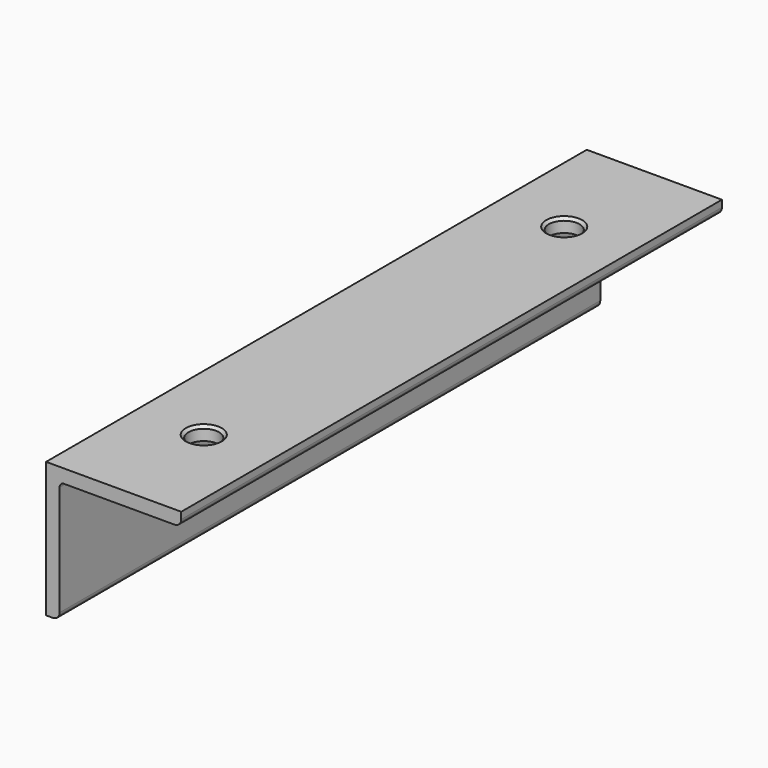
from build123d import *

# Parameters (mm, degrees)
F4_D           = 6.8
F4_DEPTH       = 5
F4_CSINK_D     = 8
F4_CSINK_ANGLE = 90


with BuildPart() as f2:
    # F2: sweep along a path in F1
    with BuildLine(Plane.YZ) as f2_path:
        Line((0, 0), (-150, 0))
    # F0 (on Front) → F2 (sweep)
    with BuildSketch(Plane.XZ):
        with BuildLine():
            Line((30, 0), (0, 0))
            Line((0, 0), (0, -30))
            Line((0, -30), (1.5, -30))
            ThreePointArc((1.5, -30), (2.56066, -29.56066), (3, -28.5))
            Line((3, -28.5), (3, -4))
            ThreePointArc((3, -4), (3.292893, -3.292893), (4, -3))
            Line((4, -3), (28.5, -3))
            ThreePointArc((28.5, -3), (29.56066, -2.56066), (30, -1.5))
            Line((30, -1.5), (30, 0))
        make_face()
    sweep(path=f2_path.line)

    # F4
    with Locations(Plane.XY):
        with Locations((15, -125), (15, -25)):
            CounterSinkHole(F4_D / 2, F4_CSINK_D / 2, depth=F4_DEPTH, counter_sink_angle=F4_CSINK_ANGLE)


solid = f2.part
